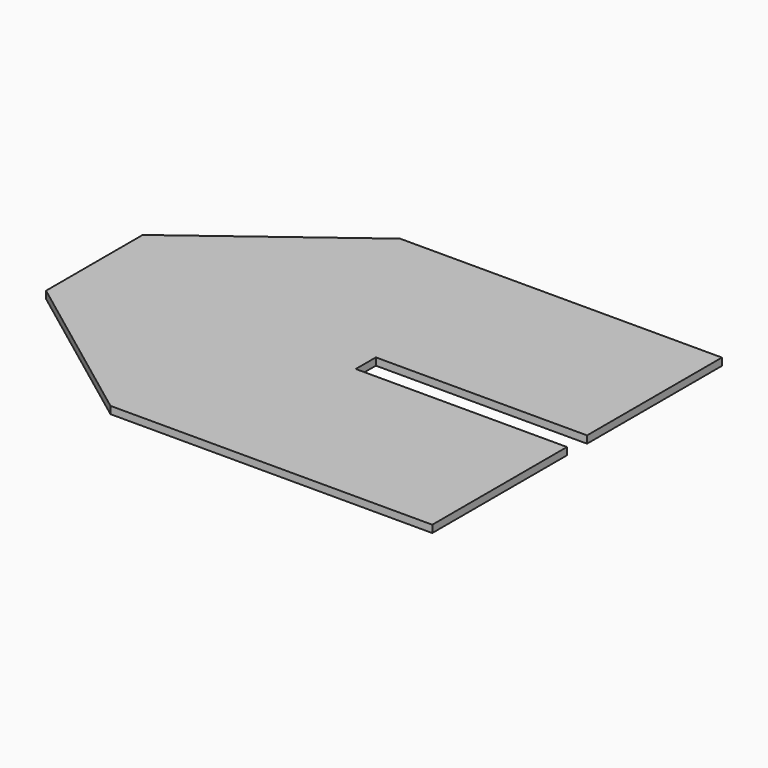
from build123d import *

# Parameters (mm, degrees)
F0_W     = 812.8
F0_H     = 914.4
F1_DEPTH = 18.542
F2_W     = 533.4
F2_H     = 63.5
F3_DEPTH = 18.543


with BuildPart() as f1:
    # F0 (on Top) → F1 (new body)
    with BuildSketch(Plane.XY):
        with Locations((-1287.690093, 614.936268)):
            Rectangle(F0_W, F0_H)
        Polygon((-1694.090093, 157.736268), (-1694.090093, 1072.136268), (-2100.490093, 767.336268), (-2100.490093, 462.536268), align=None)
    extrude(amount=F1_DEPTH)

    # F2 (on face) → F3 (cut, through all)
    with BuildSketch(Plane.XY.offset(18.542)):
        with Locations((-1147.990093, 614.63312)):
            Rectangle(F2_W, F2_H)
    extrude(amount=-F3_DEPTH, mode=Mode.SUBTRACT)


solid = f1.part
